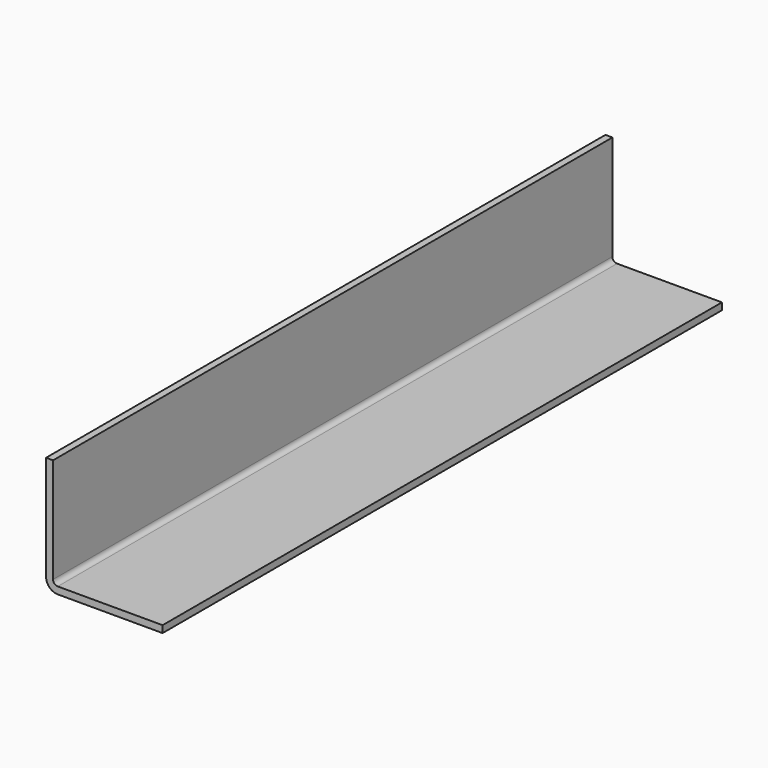
from build123d import *

# Parameters (mm, degrees)
F1_DEPTH = 300


with BuildPart() as f1:
    # F0 (on Front) → F1 (new body)
    with BuildSketch(Plane.XZ):
        with BuildLine():
            Line((3, 50), (0, 50))
            Line((0, 50), (0, 5))
            ThreePointArc((0, 5), (1.464466, 1.464466), (5, 0))
            Line((5, 0), (50, 0))
            Line((50, 0), (50, 3))
            Line((50, 3), (5, 3))
            ThreePointArc((5, 3), (3.585786, 3.585786), (3, 5))
            Line((3, 5), (3, 50))
        make_face()
    extrude(amount=F1_DEPTH)


solid = f1.part
